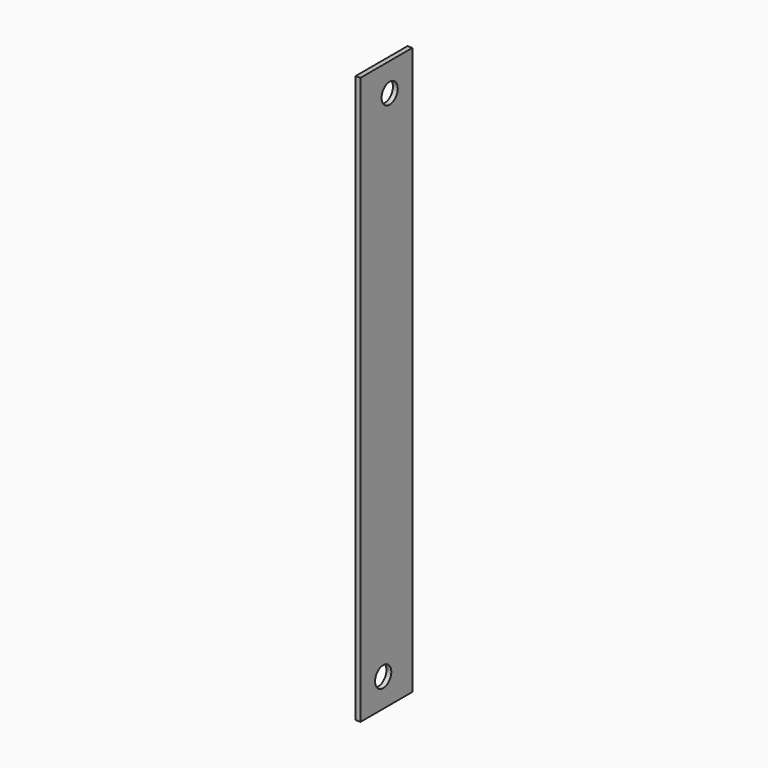
from build123d import *

# Parameters (mm, degrees)
F0_W     = 80
F0_H     = 700
F1_DEPTH = 6
F2_R     = 12.5
F3_DEPTH = 25


with BuildPart() as f1:
    # F0 (on Right) → F1 (new body)
    with BuildSketch(Plane.YZ):
        Rectangle(F0_W, F0_H)
    extrude(amount=F1_DEPTH)

    # F2 (on face) → F3 (cut)
    with BuildSketch(Plane.YZ.offset(6)):
        with Locations((5, 315)):
            Circle(F2_R)
        with Locations((-5, -315)):
            Circle(F2_R)
    extrude(amount=-F3_DEPTH, mode=Mode.SUBTRACT)


solid = f1.part
